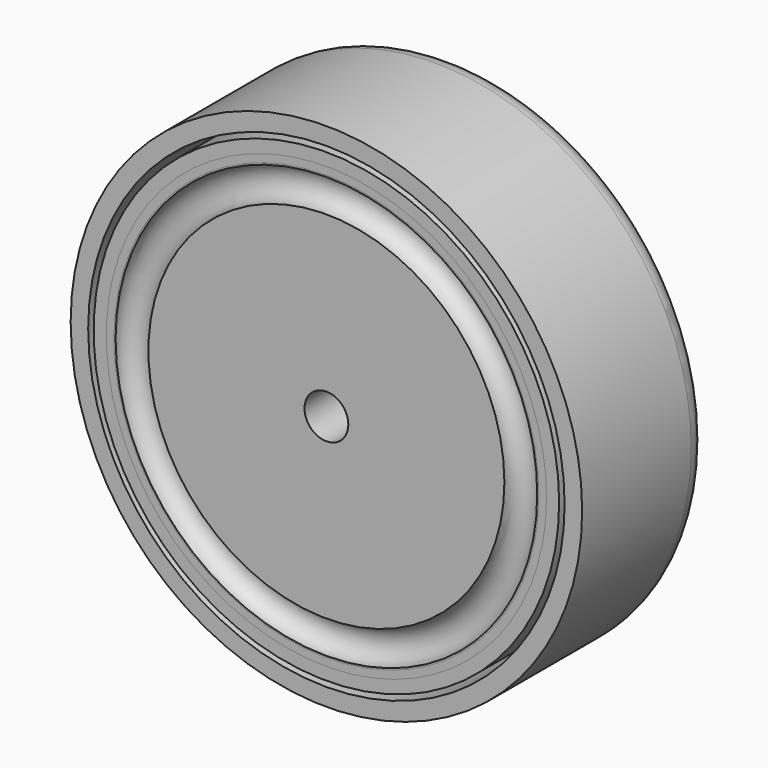
from build123d import *

# Parameters (mm, degrees)
SKETCH002_R   = 20.1
SKETCH002_R_2 = 19.4
PAD_DEPTH     = 12.85


with BuildPart() as inner:
    # Sketch → Revolution (revolve)
    with BuildSketch(Plane.XY):
        with BuildLine():
            Line((21.25, 0), (19.25, 0))
            ThreePointArc((19.25, 0), (17.75, 1.5), (16.25, 0))
            Line((2, 0), (16.25, 0))
            Line((2, 0), (2, 5.826147))
            ThreePointArc((3.796805, 7.926003), (2.510512, 7.207985), (2, 5.826147))
            Line((17.05, 10), (3.796805, 7.926003))
            ThreePointArc((18.75, 10), (17.9, 10.85), (17.05, 10))
            Line((18.75, 10), (20.25, 10))
            ThreePointArc((21.25, 9), (20.957107, 9.707107), (20.25, 10))
            Line((21.25, 9), (21.25, 0))
        make_face()
    revolve(axis=Axis((0, 0, 0), (0, 1, 0)))


with BuildPart() as pad:
    # Sketch001 → Revolution001 (revolve)
    with BuildSketch(Plane.XY):
        with BuildLine():
            Line((21.75, 0), (21.75, 10.85))
            ThreePointArc((21.75, 10.85), (22.75, 11.85), (21.75, 12.85))
            Line((21.75, 12.85), (19.75, 12.85))
            Line((19.75, 12.85), (19.75, 14.45))
            Line((19.75, 14.45), (21.35, 14.45))
            ThreePointArc((23.35, 12.45), (22.764214, 13.864214), (21.35, 14.45))
            Line((23.35, 12.45), (23.35, 0))
            Line((23.35, 0), (21.75, 0))
        make_face()
    revolve(axis=Axis((0, 0, 0), (0, 1, 0)))

    # Sketch002 → Pad (new body)
    with BuildSketch(Plane.XZ.offset(-12.85)):
        Circle(SKETCH002_R)
        Circle(SKETCH002_R_2, mode=Mode.SUBTRACT)
    extrude(amount=PAD_DEPTH)


solid = Compound([inner.part, pad.part])
